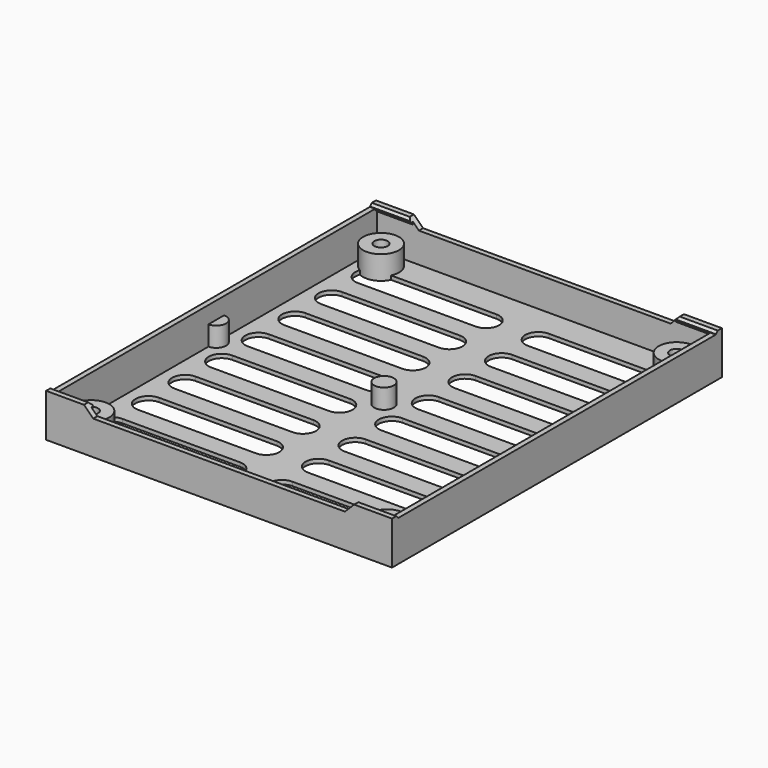
from build123d import *

# Parameters (mm, degrees)
SKETCH_W                                = 52.9
SKETCH_H                                = 63.06
PAD_DEPTH                               = 0.6
SKETCH001_W                             = 52.9
SKETCH001_H                             = 63.06
SKETCH001_W_2                           = 51.3
SKETCH001_H_2                           = 61.46
PAD001_DEPTH                            = 5.6
POCKET_DEPTH                            = 165.687809
POCKET_LINEARPATTERN_2_DEPTH            = 165.687809
POCKET_LINEARPATTERN_3_DEPTH            = 165.687809
POCKET_LINEARPATTERN_4_DEPTH            = 165.687809
POCKET_MIRRORED_2_DEPTH                 = 165.687809
POCKET_LINEARPATTERN_2_MIRRORED_2_DEPTH = 165.687809
POCKET_LINEARPATTERN_3_MIRRORED_2_DEPTH = 165.687809
POCKET_LINEARPATTERN_4_MIRRORED_2_DEPTH = 165.687809
SKETCH002_R                             = 2.75
PAD002_DEPTH                            = 3.6
SKETCH003_R                             = 1.025
HOLE_DEPTH                              = 171.287809
PAD003_DEPTH                            = 6.3
PAD003_MIRRORED002_2_DEPTH              = 6.3
SKETCH002_MIRRORED002_2_R               = 2.75
PAD002_MIRRORED002_2_DEPTH              = 3.6
SKETCH003_MIRRORED002_2_R               = 1.025
HOLE_MIRRORED002_2_DEPTH                = 171.287809
SKETCH006_R                             = 1.5
PAD004_DEPTH                            = 3
POCKET001_DEPTH                         = 63.061
PAD005_DEPTH                            = 3


with BuildPart() as part:
    # Sketch → Pad (new body)
    with BuildSketch(Plane.XY):
        Rectangle(SKETCH_W, SKETCH_H)
    extrude(amount=PAD_DEPTH)

    # Sketch001 (on Face6 of Pad) → Pad001 (join)
    with BuildSketch(Plane.XY.offset(0.6)):
        Rectangle(SKETCH001_W, SKETCH001_H)
        Rectangle(SKETCH001_W_2, SKETCH001_H_2, mode=Mode.SUBTRACT)
    extrude(amount=PAD001_DEPTH)

    # Sketch005 (on Face6 of Pad) → Pocket (cut, through all)
    with BuildSketch(Plane.XY.offset(0.6)):
        with BuildLine():
            ThreePointArc((-22, 5.5), (-24, 3.5), (-22, 1.5))
            Line((-22, 1.5), (-4, 1.5))
            ThreePointArc((-4, 1.5), (-2, 3.5), (-4, 5.5))
            Line((-4, 5.5), (-22, 5.5))
        make_face()
    pocket = extrude(amount=-POCKET_DEPTH, mode=Mode.SUBTRACT)

    # Sketch005 LinearPattern 2 → Pocket LinearPattern 2 (cut, through all)
    with BuildSketch(Plane(origin=(0, 7, 0.6), x_dir=(1, 0, 0), z_dir=(0, 0, 1))):
        with BuildLine():
            ThreePointArc((-22, 5.5), (-24, 3.5), (-22, 1.5))
            Line((-22, 1.5), (-4, 1.5))
            ThreePointArc((-4, 1.5), (-2, 3.5), (-4, 5.5))
            Line((-4, 5.5), (-22, 5.5))
        make_face()
    pocket_linearpattern_2 = extrude(amount=-POCKET_LINEARPATTERN_2_DEPTH, mode=Mode.SUBTRACT)

    # Sketch005 LinearPattern 3 → Pocket LinearPattern 3 (cut, through all)
    with BuildSketch(Plane(origin=(0, 14, 0.6), x_dir=(1, 0, 0), z_dir=(0, 0, 1))):
        with BuildLine():
            ThreePointArc((-22, 5.5), (-24, 3.5), (-22, 1.5))
            Line((-22, 1.5), (-4, 1.5))
            ThreePointArc((-4, 1.5), (-2, 3.5), (-4, 5.5))
            Line((-4, 5.5), (-22, 5.5))
        make_face()
    pocket_linearpattern_3 = extrude(amount=-POCKET_LINEARPATTERN_3_DEPTH, mode=Mode.SUBTRACT)

    # Sketch005 LinearPattern 4 → Pocket LinearPattern 4 (cut, through all)
    with BuildSketch(Plane(origin=(0, 21, 0.6), x_dir=(1, 0, 0), z_dir=(0, 0, 1))):
        with BuildLine():
            ThreePointArc((-22, 5.5), (-24, 3.5), (-22, 1.5))
            Line((-22, 1.5), (-4, 1.5))
            ThreePointArc((-4, 1.5), (-2, 3.5), (-4, 5.5))
            Line((-4, 5.5), (-22, 5.5))
        make_face()
    pocket_linearpattern_4 = extrude(amount=-POCKET_LINEARPATTERN_4_DEPTH, mode=Mode.SUBTRACT)

    # Sketch005 Mirrored 2 → Pocket Mirrored 2 (cut, through all)
    with BuildSketch(Plane(origin=(0, 0, 0.6), x_dir=(-1, 0, 0), z_dir=(0, 0, -1))):
        with BuildLine():
            ThreePointArc((-22, 5.5), (-24, 3.5), (-22, 1.5))
            Line((-22, 1.5), (-4, 1.5))
            ThreePointArc((-4, 1.5), (-2, 3.5), (-4, 5.5))
            Line((-4, 5.5), (-22, 5.5))
        make_face()
    pocket_mirrored_2 = extrude(amount=POCKET_MIRRORED_2_DEPTH, mode=Mode.SUBTRACT)

    # Sketch005 LinearPattern 2 Mirrored 2 → Pocket LinearPattern 2 Mirrored 2 (cut, through all)
    with BuildSketch(Plane(origin=(0, 7, 0.6), x_dir=(-1, 0, 0), z_dir=(0, 0, -1))):
        with BuildLine():
            ThreePointArc((-22, 5.5), (-24, 3.5), (-22, 1.5))
            Line((-22, 1.5), (-4, 1.5))
            ThreePointArc((-4, 1.5), (-2, 3.5), (-4, 5.5))
            Line((-4, 5.5), (-22, 5.5))
        make_face()
    pocket_linearpattern_2_mirrored_2 = extrude(amount=POCKET_LINEARPATTERN_2_MIRRORED_2_DEPTH, mode=Mode.SUBTRACT)

    # Sketch005 LinearPattern 3 Mirrored 2 → Pocket LinearPattern 3 Mirrored 2 (cut, through all)
    with BuildSketch(Plane(origin=(0, 14, 0.6), x_dir=(-1, 0, 0), z_dir=(0, 0, -1))):
        with BuildLine():
            ThreePointArc((-22, 5.5), (-24, 3.5), (-22, 1.5))
            Line((-22, 1.5), (-4, 1.5))
            ThreePointArc((-4, 1.5), (-2, 3.5), (-4, 5.5))
            Line((-4, 5.5), (-22, 5.5))
        make_face()
    pocket_linearpattern_3_mirrored_2 = extrude(amount=POCKET_LINEARPATTERN_3_MIRRORED_2_DEPTH, mode=Mode.SUBTRACT)

    # Sketch005 LinearPattern 4 Mirrored 2 → Pocket LinearPattern 4 Mirrored 2 (cut, through all)
    with BuildSketch(Plane(origin=(0, 21, 0.6), x_dir=(-1, 0, 0), z_dir=(0, 0, -1))):
        with BuildLine():
            ThreePointArc((-22, 5.5), (-24, 3.5), (-22, 1.5))
            Line((-22, 1.5), (-4, 1.5))
            ThreePointArc((-4, 1.5), (-2, 3.5), (-4, 5.5))
            Line((-4, 5.5), (-22, 5.5))
        make_face()
    pocket_linearpattern_4_mirrored_2 = extrude(amount=POCKET_LINEARPATTERN_4_MIRRORED_2_DEPTH, mode=Mode.SUBTRACT)

    # Mirrored001: Pocket, Pocket LinearPattern 2, Pocket LinearPattern 3, Pocket LinearPattern 4, Pocket Mirrored 2, Pocket LinearPattern 2 Mirrored 2, Pocket LinearPattern 3 Mirrored 2, Pocket LinearPattern 4 Mirrored 2 across Sketch005 H_Axis
    add(pocket.mirror(Plane(origin=(0, 0, 0.6), x_dir=(0, 0, 1), z_dir=(0, 1, 0))), mode=Mode.SUBTRACT)
    add(pocket_linearpattern_2.mirror(Plane(origin=(0, 0, 0.6), x_dir=(0, 0, 1), z_dir=(0, 1, 0))), mode=Mode.SUBTRACT)
    add(pocket_linearpattern_3.mirror(Plane(origin=(0, 0, 0.6), x_dir=(0, 0, 1), z_dir=(0, 1, 0))), mode=Mode.SUBTRACT)
    add(pocket_linearpattern_4.mirror(Plane(origin=(0, 0, 0.6), x_dir=(0, 0, 1), z_dir=(0, 1, 0))), mode=Mode.SUBTRACT)
    add(pocket_mirrored_2.mirror(Plane(origin=(0, 0, 0.6), x_dir=(0, 0, 1), z_dir=(0, 1, 0))), mode=Mode.SUBTRACT)
    add(pocket_linearpattern_2_mirrored_2.mirror(Plane(origin=(0, 0, 0.6), x_dir=(0, 0, 1), z_dir=(0, 1, 0))), mode=Mode.SUBTRACT)
    add(pocket_linearpattern_3_mirrored_2.mirror(Plane(origin=(0, 0, 0.6), x_dir=(0, 0, 1), z_dir=(0, 1, 0))), mode=Mode.SUBTRACT)
    add(pocket_linearpattern_4_mirrored_2.mirror(Plane(origin=(0, 0, 0.6), x_dir=(0, 0, 1), z_dir=(0, 1, 0))), mode=Mode.SUBTRACT)

    # Sketch002 (on Face4 of Pad001) → Pad002 (join)
    with BuildSketch(Plane(origin=(0, 0, 0), x_dir=(1, 0, 0), z_dir=(0, 0, -1))):
        with Locations((22.606, 27.686)):
            Circle(SKETCH002_R)
    pad002 = extrude(amount=-PAD002_DEPTH)

    # Sketch003 (on Face4 of Pad002) → Hole (cut, through all)
    with BuildSketch(Plane(origin=(0, 0, 0), x_dir=(1, 0, 0), z_dir=(0, 0, -1))):
        with Locations((22.606, 27.686)):
            Circle(SKETCH003_R)
    hole = extrude(amount=-HOLE_DEPTH, mode=Mode.SUBTRACT)

    # Sketch004 (on Face10 of Pad001) → Pad003 (join)
    with BuildSketch(Plane.YZ.offset(26.45)):
        Polygon((31.53, 5.7), (30.73, 5.7), (30.38, 6.05), (30.38, 6.25), (30.73, 6.6), (31.53, 6.6), align=None)
    pad003 = extrude(amount=-PAD003_DEPTH)

    # Sketch004 Mirrored002 2 → Pad003 Mirrored002 2 (add)
    with BuildSketch(Plane(origin=(26.45, 0, 0), x_dir=(0, -1, 0), z_dir=(-1, 0, 0))):
        Polygon((31.53, 5.7), (30.73, 5.7), (30.38, 6.05), (30.38, 6.25), (30.73, 6.6), (31.53, 6.6), align=None)
    pad003_mirrored002_2 = extrude(amount=PAD003_MIRRORED002_2_DEPTH)

    # Sketch002 Mirrored002 2 → Pad002 Mirrored002 2 (add)
    with BuildSketch(Plane.XY):
        with Locations((22.606, 27.686)):
            Circle(SKETCH002_MIRRORED002_2_R)
    pad002_mirrored002_2 = extrude(amount=PAD002_MIRRORED002_2_DEPTH)

    # Sketch003 Mirrored002 2 → Hole Mirrored002 2 (cut, through all)
    with BuildSketch(Plane.XY):
        with Locations((22.606, 27.686)):
            Circle(SKETCH003_MIRRORED002_2_R)
    hole_mirrored002_2 = extrude(amount=HOLE_MIRRORED002_2_DEPTH, mode=Mode.SUBTRACT)

    # Mirrored003: Pad003, Pad002, Hole, Pad003 Mirrored002 2, Pad002 Mirrored002 2, Hole Mirrored002 2 across YZ
    add(pad003.mirror(Plane.YZ))
    add(pad002.mirror(Plane.YZ))
    add(hole.mirror(Plane.YZ), mode=Mode.SUBTRACT)
    add(pad003_mirrored002_2.mirror(Plane.YZ))
    add(pad002_mirrored002_2.mirror(Plane.YZ))
    add(hole_mirrored002_2.mirror(Plane.YZ), mode=Mode.SUBTRACT)

    # Sketch006 (on Face78 of MultiTransform001) → Pad004 (join)
    with BuildSketch(Plane.XY.offset(0.6)):
        Circle(SKETCH006_R)
    extrude(amount=PAD004_DEPTH)

    # Sketch007 (on Face80 of Pad004) → Pocket001 (cut, through all)
    with BuildSketch(Plane.XZ.offset(31.53)):
        Polygon((-19.25, 5.2), (-24.25, 10.2), (24.25, 10.2), (19.25, 5.2), align=None)
    extrude(amount=-POCKET001_DEPTH, mode=Mode.SUBTRACT)

    # Sketch008 (on Face78 of Pocket001) → Pad005 (join)
    with BuildSketch(Plane.XY.offset(0.6)):
        with BuildLine():
            ThreePointArc((25.65, 1.5), (24.15, 0), (25.65, -1.5))
            Line((25.65, 1.5), (25.65, -1.5))
        make_face()
    pad005 = extrude(amount=PAD005_DEPTH)

    # Mirrored004: Pad005 across YZ
    add(pad005.mirror(Plane.YZ))


solid = part.part
